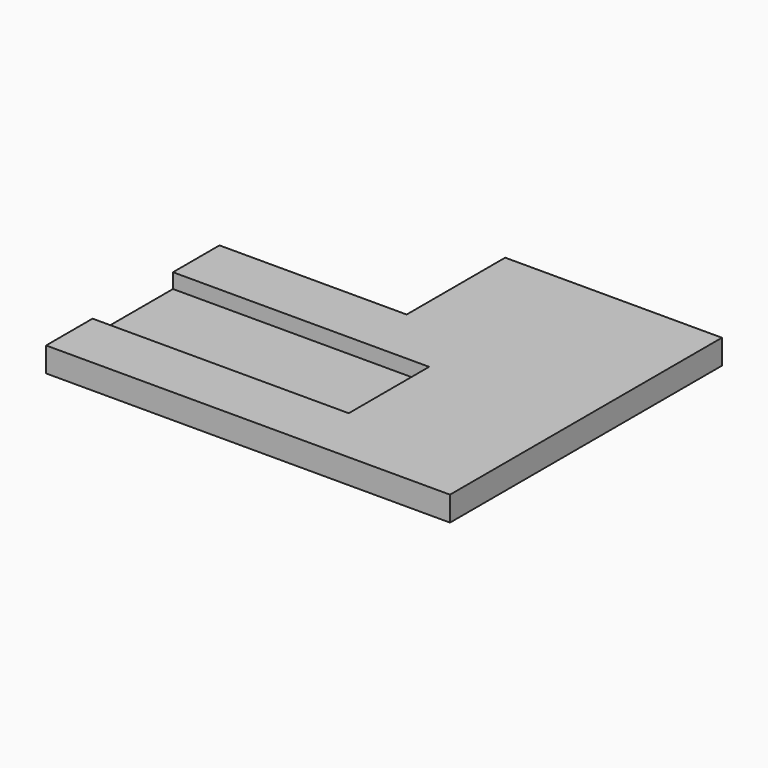
from build123d import *

# Parameters (mm, degrees)
BOX005_W     = 52
BOX005_H     = 20.4
BOX005_DEPTH = 3
BOX004_W     = 38
BOX004_H     = 44
BOX004_DEPTH = 5
BOX001_W     = 44
BOX001_H     = 69
BOX001_DEPTH = 5


with BuildPart() as cube005:
    # Box005 → Box005 (new body)
    with BuildSketch(Plane(origin=(-60, -6.2, 2), x_dir=(1, 0, 0), z_dir=(0, 0, 1))):
        with Locations((26, 10.2)):
            Rectangle(BOX005_W, BOX005_H)
    extrude(amount=BOX005_DEPTH)


with BuildPart() as cube004:
    # Box004 → Box004 (new body)
    with BuildSketch(Plane(origin=(-60, -18, 0), x_dir=(1, 0, 0), z_dir=(0, 0, 1))):
        with Locations((19, 22)):
            Rectangle(BOX004_W, BOX004_H)
    extrude(amount=BOX004_DEPTH)


with BuildPart() as cut005:
    # Box001 → Box001 (new body)
    with BuildSketch(Plane(origin=(-22, -18, 0), x_dir=(1, 0, 0), z_dir=(0, 0, 1))):
        with Locations((22, 34.5)):
            Rectangle(BOX001_W, BOX001_H)
    extrude(amount=BOX001_DEPTH)

    # Fusion009: union Cube004
    add(cube004.part)

    # Cut005: cut Cube005
    add(cube005.part, mode=Mode.SUBTRACT)


solid = cut005.part
